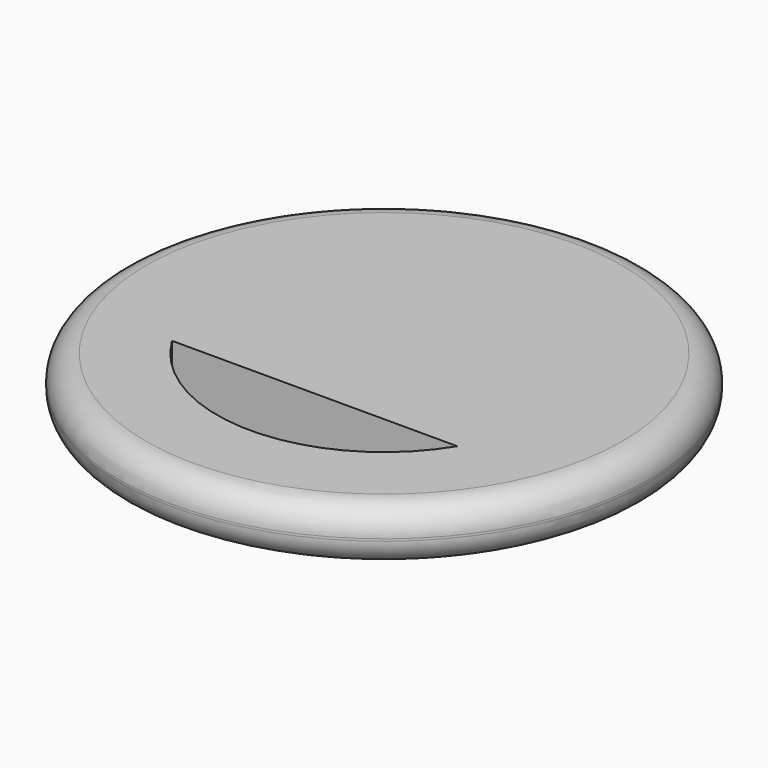
from build123d import *

# Parameters (mm, degrees)
F0_R     = 12.25
F1_DEPTH = 2.5
F2_R     = 1.2


with BuildPart() as f1:
    # F0 (on Top) → F1 (new body)
    with BuildSketch(Plane.XY):
        Circle(F0_R)
        with BuildLine():
            ThreePointArc((6.620244, -4.029252), (0, -7.75), (-6.620244, -4.029252))
            Line((-6.620244, -4.029252), (6.620244, -4.029252))
        make_face(mode=Mode.SUBTRACT)
    extrude(amount=F1_DEPTH)

    # F2
    f2_edges = [f1.edges().sort_by_distance(p)[0] for p in [
        (-12.25, 0, 2.5),
        (-12.25, 0, 0),
    ]]
    fillet(f2_edges, radius=F2_R)


solid = f1.part
